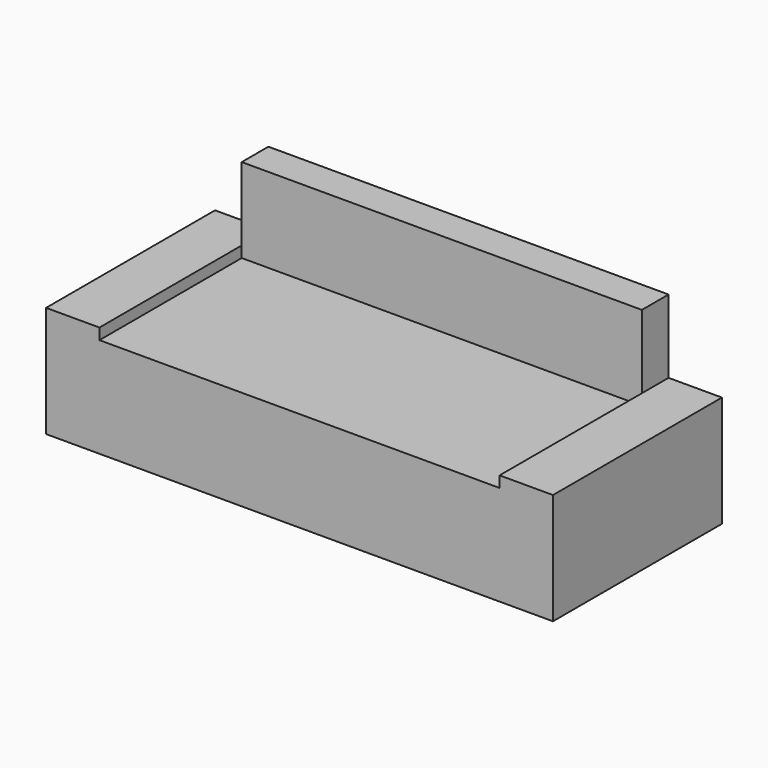
from build123d import *

# Parameters (mm, degrees)
F1_DEPTH = 500
F0_W     = 1800
F0_H     = 800
F2_DEPTH = 450
F0_H_2   = 150
F3_DEPTH = 830
F4_W     = 900
F4_H     = 700
F5_DEPTH = 430
F6_R     = 50


with BuildPart() as f1:
    # F0 (on Top) → F1 (new body)
    with BuildSketch(Plane.XY):
        Polygon((-1140, 475), (-1140, -475), (-900, -475), (-900, 325), (-900, 475), align=None)
        Polygon((900, 325), (900, -475), (1140, -475), (1140, 475), (900, 475), align=None)
    extrude(amount=F1_DEPTH)

    # F0 (on Top) → F2 (join)
    with BuildSketch(Plane.XY):
        with Locations((0, -75)):
            Rectangle(F0_W, F0_H)
    extrude(amount=F2_DEPTH)

    # F0 (on Top) → F3 (join)
    with BuildSketch(Plane.XY):
        with Locations((0, 400)):
            Rectangle(F0_W, F0_H_2)
    extrude(amount=F3_DEPTH)


with BuildPart() as f5:
    # F4 (on Top) → F5 (new body)
    with BuildSketch(Plane.XY):
        Rectangle(F4_W, F4_H)
    extrude(amount=F5_DEPTH)

    # F6
    f6_edges = [f5.edges().sort_by_distance(p)[0] for p in [
        (0, 350, 430),
        (-450, 0, 430),
        (0, -350, 430),
        (450, 0, 430),
        (-450, -350, 215),
        (450, -350, 215),
        (450, 350, 215),
        (-450, 350, 215),
    ]]
    fillet(f6_edges, radius=F6_R)


solid = Compound([f1.part, f5.part])
